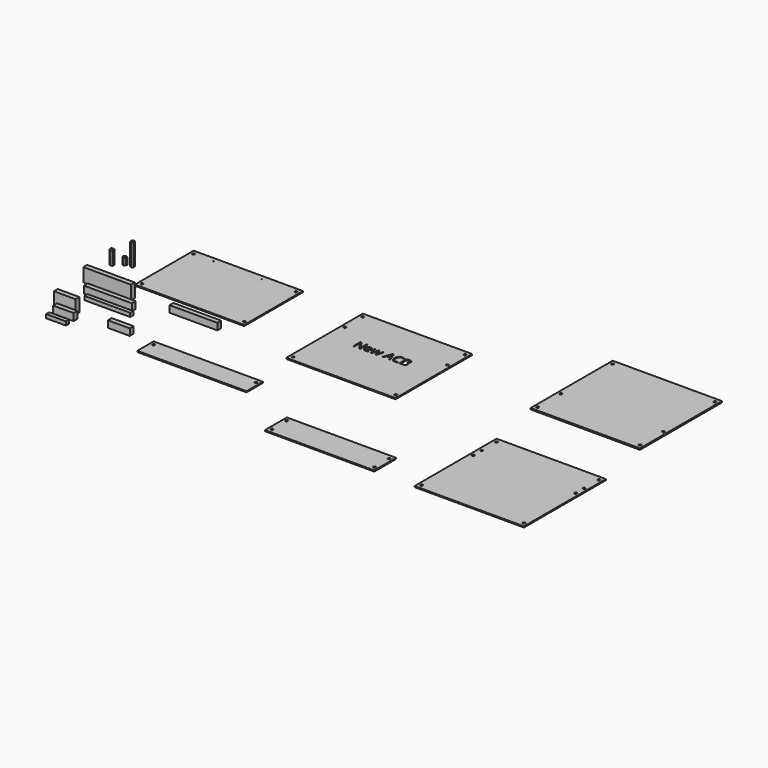
from build123d import *

# Parameters (mm, degrees)
F0_W      = 160
F0_H      = 107.5
F0_R      = 0.5
F1_DEPTH  = 1.6
F2_D      = 3.5
F3_W      = 70
F3_H      = 7
F4_DEPTH  = 20
F5_W      = 70
F5_H      = 7
F6_DEPTH  = 10.4
F7_W      = 67
F7_H      = 5.7
F8_DEPTH  = 5.5
F9_W      = 70
F9_H      = 7
F10_DEPTH = 9.8
F11_W     = 32
F11_H     = 7
F12_DEPTH = 20
F13_W     = 30
F13_H     = 7
F14_DEPTH = 10.4
F15_W     = 29
F15_H     = 5.7
F16_DEPTH = 5.5
F17_W     = 32
F17_H     = 7
F18_DEPTH = 9.8
F20_DEPTH = 20
F21_W     = 160
F21_H     = 30
F21_R     = 1.75
F22_DEPTH = 1.6
F23_W     = 160
F23_H     = 140
F23_R     = 1.75
F24_DEPTH = 1.6
F26_DEPTH = 10
F28_DEPTH = 32
F29_W     = 160
F29_H     = 40
F29_R     = 1.75
F31_DEPTH = 1.6
F30_W     = 160
F30_H     = 150
F30_R     = 1.75
F32_DEPTH = 1.6
F33_W     = 160
F33_H     = 150
F34_DEPTH = 2
F35_R     = 1.75
F36_DEPTH = 25


with BuildPart() as f1:
    # F0 (on Top) → F1 (new body)
    with BuildSketch(Plane.XY):
        with Locations((80, 53.75)):
            Rectangle(F0_W, F0_H)
        with Locations((34.275, 101)):
            Circle(F0_R, mode=Mode.SUBTRACT)
        with Locations((104.775, 101)):
            Circle(F0_R, mode=Mode.SUBTRACT)
    extrude(amount=F1_DEPTH)

    # F2 (through all)
    with Locations(Plane(origin=(0, 0, 0), x_dir=(1, 0, 0), z_dir=(0, 0, -1))):
        with Locations((5, -101), (155, -101), (155, -6.5), (5, -6.5)):
            Hole(F2_D / 2)


with BuildPart() as f4:
    # F3 (on Top) → F4 (new body)
    with BuildSketch(Plane.XY):
        with Locations((-16.0939775687, -27.1400371566)):
            Rectangle(F3_W, F3_H)
    extrude(amount=F4_DEPTH)


with BuildPart() as f6:
    # F5 (on Top) → F6 (new body)
    with BuildSketch(Plane.XY):
        with Locations((1.7421445296, -48.1625366956)):
            Rectangle(F5_W, F5_H)
    extrude(amount=F6_DEPTH)


with BuildPart() as f8:
    # F7 (on Top) → F8 (new body)
    with BuildSketch(Plane.XY):
        with Locations((10.7092835508, -61.0287673771)):
            Rectangle(F7_W, F7_H)
    extrude(amount=F8_DEPTH)


with BuildPart() as f10:
    # F9 (on Top) → F10 (new body)
    with BuildSketch(Plane.XY):
        with Locations((107.5625554097, -23.9234799519)):
            Rectangle(F9_W, F9_H)
    extrude(amount=F10_DEPTH)


with BuildPart() as f12:
    # F11 (on Top) → F12 (new body)
    with BuildSketch(Plane.XY):
        with Locations((-23.9963108364, -94.9174948037)):
            Rectangle(F11_W, F11_H)
    extrude(amount=F12_DEPTH)


with BuildPart() as f14:
    # F13 (on Top) → F14 (new body)
    with BuildSketch(Plane.XY):
        with Locations((-15, -108.6432483196)):
            Rectangle(F13_W, F13_H)
    extrude(amount=F14_DEPTH)


with BuildPart() as f16:
    # F15 (on Top) → F16 (new body)
    with BuildSketch(Plane.XY):
        with Locations((-14.5, -123.4859487057)):
            Rectangle(F15_W, F15_H)
    extrude(amount=F16_DEPTH)


with BuildPart() as f18:
    # F17 (on Top) → F18 (new body)
    with BuildSketch(Plane.XY):
        with Locations((57.0341287478, -97.2132757306)):
            Rectangle(F17_W, F17_H)
    extrude(amount=F18_DEPTH)


with BuildPart() as f20:
    # F19 (on Top) → F20 (new body)
    with BuildSketch(Plane.XY):
        Polygon((-50.3638529029, 25.6252197895), (-52.815556545, 27.149189141), (-55.3612045391, 25.7879361801), (-55.455148891, 22.9027138677), (-53.0034452489, 21.3787445162), (-50.4577972548, 22.7399974771), align=None)
    extrude(amount=F20_DEPTH)


with BuildPart() as f22:
    # F21 (on Top) → F22 (new body)
    with BuildSketch(Plane.XY):
        with Locations((184.6012100577, -111.4463090748)):
            Rectangle(F21_W, F21_H)
        with Locations((109.6012100577, -102.9463090748)):
            Circle(F21_R, mode=Mode.SUBTRACT)
        with Locations((259.6012100577, -102.9463090748)):
            Circle(F21_R, mode=Mode.SUBTRACT)
    extrude(amount=F22_DEPTH)


with BuildPart() as f24:
    # F23 (on Top) → F24 (new body)
    with BuildSketch(Plane.XY):
        with Locations((328.4113079536, 36.5902520716)):
            Rectangle(F23_W, F23_H)
        with Locations((253.4113079536, -26.9097479284)):
            Circle(F23_R, mode=Mode.SUBTRACT)
        with Locations((403.4113079536, -26.9097479284)):
            Circle(F23_R, mode=Mode.SUBTRACT)
        with Locations((253.4113079536, 67.5902520716)):
            Circle(F23_R, mode=Mode.SUBTRACT)
        with BuildLine():
            Line((300.6859295811, 49.9915973276), (300.6859295811, 36.6290178146))
            Line((300.6859295811, 36.6290178146), (298.9136110902, 36.6290178146))
            Line((298.9136110902, 36.6290178146), (291.6108400147, 47.8420031183))
            Line((291.6108400147, 47.8420031183), (291.5377245654, 47.8420031183))
            add(Edge.make_bspline(
                [(291.5377245654, 47.8420031183), (291.683955464, 45.8678859874), (291.683955464, 44.2242506873)],
                knots=[0, 0, 0, 1, 1, 1], degree=2))
            Line((291.683955464, 44.2242506873), (291.683955464, 36.6290178146))
            Line((291.683955464, 36.6290178146), (290.2479680399, 36.6290178146))
            Line((290.2479680399, 36.6290178146), (290.2479680399, 49.9915973276))
            Line((290.2479680399, 49.9915973276), (292.0027388229, 49.9915973276))
            Line((292.0027388229, 49.9915973276), (299.2879621906, 38.8224812934))
            Line((299.2879621906, 38.8224812934), (299.3610776399, 38.8224812934))
            add(Edge.make_bspline(
                [(299.3610776399, 38.8224812934), (299.3435299321, 39.068149203), (299.2791883367, 40.4076242341)],
                knots=[0, 0, 0, 1, 1, 1], degree=2))
            add(Edge.make_bspline(
                [(299.2791883367, 40.4076242341), (299.2148467413, 41.7470992652), (299.2323944492, 42.3232490056)],
                knots=[0, 0, 0, 1, 1, 1], degree=2))
            Line((299.2323944492, 42.3232490056), (299.2323944492, 49.9915973276))
            Line((299.2323944492, 49.9915973276), (300.6859295811, 49.9915973276))
        make_face(mode=Mode.SUBTRACT)
        with BuildLine():
            add(Edge.make_bspline(
                [(310.0944255963, 36.5968470169), (309.3778941933, 36.4447668823), (308.363051757, 36.4447668823)],
                knots=[0, 0, 0, 1, 1, 1], degree=2))
            add(Edge.make_bspline(
                [(308.363051757, 36.4447668823), (306.1432667165, 36.4447668823), (304.8578971179, 37.7988650033)],
                knots=[0, 0, 0, 1, 1, 1], degree=2))
            add(Edge.make_bspline(
                [(304.8578971179, 37.7988650033), (303.5725275193, 39.1529631242), (303.5725275193, 41.554074479)],
                knots=[0, 0, 0, 1, 1, 1], degree=2))
            add(Edge.make_bspline(
                [(303.5725275193, 41.554074479), (303.5725275193, 43.9785827776), (304.7657716518, 45.4043340389)],
                knots=[0, 0, 0, 1, 1, 1], degree=2))
            add(Edge.make_bspline(
                [(304.7657716518, 45.4043340389), (305.9590157842, 46.8300853001), (307.9711529488, 46.8300853001)],
                knots=[0, 0, 0, 1, 1, 1], degree=2))
            add(Edge.make_bspline(
                [(307.9711529488, 46.8300853001), (309.8516823047, 46.8300853001), (310.9484140441, 45.5915095891)],
                knots=[0, 0, 0, 1, 1, 1], degree=2))
            add(Edge.make_bspline(
                [(310.9484140441, 45.5915095891), (312.0451457835, 44.352933878), (312.0451457835, 42.3232490056)],
                knots=[0, 0, 0, 1, 1, 1], degree=2))
            Line((312.0451457835, 42.3232490056), (312.0451457835, 41.3639743109))
            Line((312.0451457835, 41.3639743109), (305.1459719881, 41.3639743109))
            add(Edge.make_bspline(
                [(305.1459719881, 41.3639743109), (305.1927658756, 39.6004296739), (306.0379804695, 38.6864865577)],
                knots=[0, 0, 0, 1, 1, 1], degree=2))
            add(Edge.make_bspline(
                [(306.0379804695, 38.6864865577), (306.8831950633, 37.7725434415), (308.4186194985, 37.7725434415)],
                knots=[0, 0, 0, 1, 1, 1], degree=2))
            add(Edge.make_bspline(
                [(308.4186194985, 37.7725434415), (310.0359332369, 37.7725434415), (311.6152269417, 38.448130193)],
                knots=[0, 0, 0, 1, 1, 1], degree=2))
            Line((311.6152269417, 38.448130193), (311.6152269417, 37.0940320721))
            add(Edge.make_bspline(
                [(311.6152269417, 37.0940320721), (310.8109569994, 36.7489271514), (310.0944255963, 36.5968470169)],
                knots=[0, 0, 0, 1, 1, 1], degree=2))
        make_face(mode=Mode.SUBTRACT)
        with BuildLine():
            Line((324.6151538262, 36.6290178146), (322.8135891556, 36.6290178146))
            Line((322.8135891556, 36.6290178146), (320.9769290693, 42.5045753199))
            add(Edge.make_bspline(
                [(320.9769290693, 42.5045753199), (320.801451991, 43.0456296446), (320.3276638796, 44.9554051802)],
                knots=[0, 0, 0, 1, 1, 1], degree=2))
            Line((320.3276638796, 44.9554051802), (320.2545484303, 44.9554051802))
            add(Edge.make_bspline(
                [(320.2545484303, 44.9554051802), (319.8889711838, 43.3556391496), (319.6140570945, 42.487027612)],
                knots=[0, 0, 0, 1, 1, 1], degree=2))
            Line((319.6140570945, 42.487027612), (317.7218292667, 36.6290178146))
            Line((317.7218292667, 36.6290178146), (315.9670584837, 36.6290178146))
            Line((315.9670584837, 36.6290178146), (313.235465298, 46.6458343679))
            Line((313.235465298, 46.6458343679), (314.8264574747, 46.6458343679))
            add(Edge.make_bspline(
                [(314.8264574747, 46.6458343679), (315.7945060233, 42.8701525663), (316.3019272414, 40.8960354354)],
                knots=[0, 0, 0, 1, 1, 1], degree=2))
            add(Edge.make_bspline(
                [(316.3019272414, 40.8960354354), (316.8093484595, 38.9219183044), (316.8824639088, 38.237557699)],
                knots=[0, 0, 0, 1, 1, 1], degree=2))
            Line((316.8824639088, 38.237557699), (316.9555793581, 38.237557699))
            add(Edge.make_bspline(
                [(316.9555793581, 38.237557699), (317.0550163692, 38.758139698), (317.278749644, 39.585806584)],
                knots=[0, 0, 0, 1, 1, 1], degree=2))
            add(Edge.make_bspline(
                [(317.278749644, 39.585806584), (317.5024829188, 40.41347347), (317.6691861432, 40.8960354354)],
                knots=[0, 0, 0, 1, 1, 1], degree=2))
            Line((317.6691861432, 40.8960354354), (319.5058462295, 46.6458343679))
            Line((319.5058462295, 46.6458343679), (321.1494815297, 46.6458343679))
            Line((321.1494815297, 46.6458343679), (322.9422723464, 40.8960354354))
            add(Edge.make_bspline(
                [(322.9422723464, 40.8960354354), (323.4540804914, 39.3255155845), (323.6354068057, 38.2551054069)],
                knots=[0, 0, 0, 1, 1, 1], degree=2))
            Line((323.6354068057, 38.2551054069), (323.708522255, 38.2551054069))
            add(Edge.make_bspline(
                [(323.708522255, 38.2551054069), (323.7465422886, 38.5855872377), (323.9059339681, 39.2714101521)],
                knots=[0, 0, 0, 1, 1, 1], degree=2))
            add(Edge.make_bspline(
                [(323.9059339681, 39.2714101521), (324.0653256475, 39.9572330664), (325.8113225767, 46.6458343679)],
                knots=[0, 0, 0, 1, 1, 1], degree=2))
            Line((325.8113225767, 46.6458343679), (327.3818424275, 46.6458343679))
            Line((327.3818424275, 46.6458343679), (324.6151538262, 36.6290178146))
        make_face(mode=Mode.SUBTRACT)
        with Locations((253.4113079536, 100.0902520716)):
            Circle(F23_R, mode=Mode.SUBTRACT)
        Polygon((344.2919835403, 36.6290178146), (342.6834436559, 36.6290178146), (341.0193360299, 40.8784877275), (335.6643605236, 40.8784877275), (334.0207252234, 36.6290178146), (332.4472807546, 36.6290178146), (337.7291408117, 50.0471650691), (339.036445045, 50.0471650691), align=None, mode=Mode.SUBTRACT)
        with BuildLine():
            add(Edge.make_bspline(
                [(354.8849498341, 48.081821792), (353.3670731068, 48.7925039592), (351.8491963794, 48.7925039592)],
                knots=[0, 0, 0, 1, 1, 1], degree=2))
            add(Edge.make_bspline(
                [(351.8491963794, 48.7925039592), (349.6469590467, 48.7925039592), (348.371825611, 47.3258080463)],
                knots=[0, 0, 0, 1, 1, 1], degree=2))
            add(Edge.make_bspline(
                [(348.371825611, 47.3258080463), (347.0966921753, 45.8591121335), (347.0966921753, 43.3088452621)],
                knots=[0, 0, 0, 1, 1, 1], degree=2))
            add(Edge.make_bspline(
                [(347.0966921753, 43.3088452621), (347.0966921753, 40.6883875594), (348.3264940324, 39.2567870622)],
                knots=[0, 0, 0, 1, 1, 1], degree=2))
            add(Edge.make_bspline(
                [(348.3264940324, 39.2567870622), (349.5562958895, 37.825186565), (351.8316486716, 37.825186565)],
                knots=[0, 0, 0, 1, 1, 1], degree=2))
            add(Edge.make_bspline(
                [(351.8316486716, 37.825186565), (353.2296160621, 37.825186565), (355.0224068788, 38.3282208562)],
                knots=[0, 0, 0, 1, 1, 1], degree=2))
            Line((355.0224068788, 38.3282208562), (355.0224068788, 36.9682734993))
            add(Edge.make_bspline(
                [(355.0224068788, 36.9682734993), (353.6332133422, 36.4447668823), (351.5947546159, 36.4447668823)],
                knots=[0, 0, 0, 1, 1, 1], degree=2))
            add(Edge.make_bspline(
                [(351.5947546159, 36.4447668823), (348.6438150823, 36.4447668823), (347.0396621248, 38.237557699)],
                knots=[0, 0, 0, 1, 1, 1], degree=2))
            add(Edge.make_bspline(
                [(347.0396621248, 38.237557699), (345.4355091673, 40.0303485157), (345.4355091673, 43.3293175879)],
                knots=[0, 0, 0, 1, 1, 1], degree=2))
            add(Edge.make_bspline(
                [(345.4355091673, 43.3293175879), (345.4355091673, 45.394097876), (346.2076083118, 46.947070019)],
                knots=[0, 0, 0, 1, 1, 1], degree=2))
            add(Edge.make_bspline(
                [(346.2076083118, 46.947070019), (346.9797074564, 48.500042162), (348.4376295153, 49.3408698289)],
                knots=[0, 0, 0, 1, 1, 1], degree=2))
            add(Edge.make_bspline(
                [(348.4376295153, 49.3408698289), (349.8955515743, 50.1816974958), (351.8696687052, 50.1816974958)],
                knots=[0, 0, 0, 1, 1, 1], degree=2))
            add(Edge.make_bspline(
                [(351.8696687052, 50.1816974958), (353.9695444089, 50.1816974958), (355.5429888778, 49.4154475872)],
                knots=[0, 0, 0, 1, 1, 1], degree=2))
            Line((355.5429888778, 49.4154475872), (354.8849498341, 48.081821792))
        make_face(mode=Mode.SUBTRACT)
        with BuildLine():
            Line((357.9382509966, 36.6290178146), (357.9382509966, 49.9915973276))
            Line((357.9382509966, 49.9915973276), (361.7139327982, 49.9915973276))
            add(Edge.make_bspline(
                [(361.7139327982, 49.9915973276), (364.3724105346, 49.9915973276), (365.5612677401, 49.1961012393)],
                knots=[0, 0, 0, 1, 1, 1], degree=2))
            add(Edge.make_bspline(
                [(365.5612677401, 49.1961012393), (366.7501249456, 48.400605151), (366.7501249456, 46.6838544015)],
                knots=[0, 0, 0, 1, 1, 1], degree=2))
            add(Edge.make_bspline(
                [(366.7501249456, 46.6838544015), (366.7501249456, 45.493534887), (366.087698975, 44.7214357425)],
                knots=[0, 0, 0, 1, 1, 1], degree=2))
            add(Edge.make_bspline(
                [(366.087698975, 44.7214357425), (365.4252730044, 43.9493365979), (364.1530641867, 43.7212163961)],
                knots=[0, 0, 0, 1, 1, 1], degree=2))
            Line((364.1530641867, 43.7212163961), (364.1530641867, 43.630553239))
            add(Edge.make_bspline(
                [(364.1530641867, 43.630553239), (367.1975914953, 43.10997124), (367.1975914953, 40.4310211779)],
                knots=[0, 0, 0, 1, 1, 1], degree=2))
            add(Edge.make_bspline(
                [(367.1975914953, 40.4310211779), (367.1975914953, 38.6411549791), (365.986799655, 37.6350863968)],
                knots=[0, 0, 0, 1, 1, 1], degree=2))
            add(Edge.make_bspline(
                [(365.986799655, 37.6350863968), (364.7760078147, 36.6290178146), (362.6000920437, 36.6290178146)],
                knots=[0, 0, 0, 1, 1, 1], degree=2))
            Line((362.6000920437, 36.6290178146), (357.9382509966, 36.6290178146))
        make_face(mode=Mode.SUBTRACT)
        with Locations((403.4113079536, 67.5902520716)):
            Circle(F23_R, mode=Mode.SUBTRACT)
        with Locations((403.4113079536, 100.0902520716)):
            Circle(F23_R, mode=Mode.SUBTRACT)
    extrude(amount=F24_DEPTH)


with BuildPart() as f26:
    # F25 (on Top) → F26 (new body)
    with BuildSketch(Plane.XY):
        Polygon((-41.7578315576, 30.9134710241), (-39.2462941976, 32.3366763581), (-39.2230574918, 35.2233341814), (-41.7113581459, 36.6867866707), (-44.2228955058, 35.2635813366), (-44.2461322117, 32.3769235133), align=None)
    extrude(amount=F26_DEPTH)


with BuildPart() as f28:
    # F27 (on Top) → F28 (new body)
    with BuildSketch(Plane.XY):
        Polygon((-32.1216009738, 33.0177766992), (-29.6297925152, 34.4752484618), (-29.6460958575, 37.3619537696), (-32.1542076586, 38.7911873149), (-34.6460161172, 37.3337155523), (-34.6297127748, 34.4470102444), align=None)
    extrude(amount=F28_DEPTH)


with BuildPart() as f31:
    # F29 (on Top) → F31 (new body)
    with BuildSketch(Plane.XY):
        with Locations((421.1595952511, -168.3685094437)):
            Rectangle(F29_W, F29_H)
        with Locations((346.1595952511, -181.8685094437)):
            Circle(F29_R, mode=Mode.SUBTRACT)
        with Locations((496.1595952511, -181.8685094437)):
            Circle(F29_R, mode=Mode.SUBTRACT)
        with Locations((346.1595952511, -154.8685094437)):
            Circle(F29_R, mode=Mode.SUBTRACT)
        with Locations((496.1595952511, -154.8685094437)):
            Circle(F29_R, mode=Mode.SUBTRACT)
    extrude(amount=F31_DEPTH)


with BuildPart() as f32:
    # F30 (on Top) → F32 (new body)
    with BuildSketch(Plane.XY):
        with Locations((641.2979960442, -114.6227126732)):
            Rectangle(F30_W, F30_H)
        with Locations((566.2979960442, -183.1227126732)):
            Circle(F30_R, mode=Mode.SUBTRACT)
        with Locations((716.2979960442, -183.1227126732)):
            Circle(F30_R, mode=Mode.SUBTRACT)
        with Locations((566.2979960442, -88.6227126732)):
            Circle(F30_R, mode=Mode.SUBTRACT)
        with Locations((566.2979960442, -73.1227126732)):
            Circle(F30_R, mode=Mode.SUBTRACT)
        with Locations((566.2979960442, -46.1227126732)):
            Circle(F30_R, mode=Mode.SUBTRACT)
        with Locations((716.2979960442, -88.6227126732)):
            Circle(F30_R, mode=Mode.SUBTRACT)
        with Locations((716.2979960442, -73.1227126732)):
            Circle(F30_R, mode=Mode.SUBTRACT)
        with Locations((716.2979960442, -46.1227126732)):
            Circle(F30_R, mode=Mode.SUBTRACT)
    extrude(amount=F32_DEPTH)


with BuildPart() as f34:
    # F33 (on Top) → F34 (new body)
    with BuildSketch(Plane.XY):
        with Locations((624.7403526306, 118.4329837396)):
            Rectangle(F33_W, F33_H)
    extrude(amount=F34_DEPTH)

    # F35 (on face) → F36 (cut)
    with BuildSketch(Plane.XY.offset(2)):
        with Locations((549.7403526306, 186.9329837396)):
            Circle(F35_R)
        with Locations((699.7403526306, 186.9329837396)):
            Circle(F35_R)
        with Locations((549.7403526306, 92.4329837396)):
            Circle(F35_R)
        with Locations((699.7403526306, 92.4329837396)):
            Circle(F35_R)
        with Locations((549.7403526306, 49.9329837396)):
            Circle(F35_R)
        with Locations((699.7403526306, 49.9329837396)):
            Circle(F35_R)
    extrude(amount=-F36_DEPTH, mode=Mode.SUBTRACT)


solid = Compound([f1.part, f4.part, f6.part, f8.part, f10.part, f12.part, f14.part, f16.part, f18.part, f20.part, f22.part, f24.part, f26.part, f28.part, f31.part, f32.part, f34.part])
